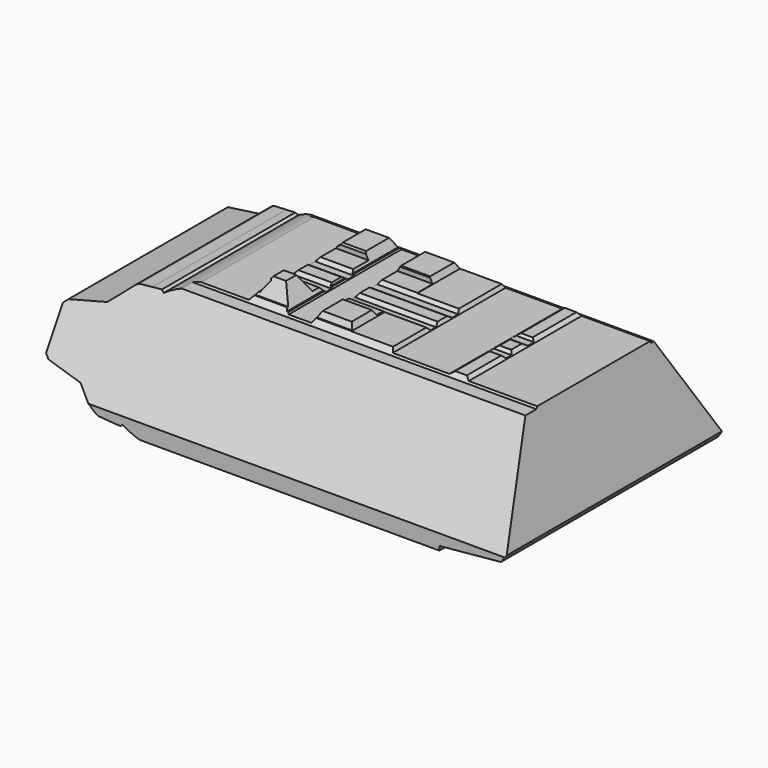
from build123d import *

# Parameters (mm, degrees)
F0_W     = 64.5160431693
F0_H     = 21.2102837178
F1_DEPTH = 25.4
F3_DEPTH = 51.816
F5_DEPTH = 78.486
F6_DEPTH = 43.18


with BuildPart() as f1:
    # F0 (on Top) → F1 (new body)
    with BuildSketch(Plane.XY):
        with Locations((-13.5457146427, -10.1202105203)):
            Rectangle(F0_W, F0_H)
        with Locations((-13.5457146427, -31.3304942381)):
            Rectangle(F0_W, F0_H)
        Polygon((-56.0653362274, -41.935636097), (-45.8037362274, -41.935636097), (-45.8037362274, -20.7253523792), (-45.8037362274, 0.4849313386), (-56.0653362274, 0.4849313386), (-56.0653362274, -20.7253523792), align=None)
    extrude(amount=F1_DEPTH)

    # F2 (on face) → F3 (cut)
    with BuildSketch(Plane.XZ.offset(41.935636097)):
        with BuildLine():
            ThreePointArc((-44.145979319, 1.0321285638), (-44.1486688564, 1.034928695), (-44.1513573992, 1.0377297813))
            Line((-44.1513573992, 1.0377297813), (-45.9468774498, 1.1715529611))
            Line((-45.9468774498, 1.1715529611), (-44.145979319, 1.0321285638))
        make_face()
        with BuildLine():
            Line((-44.021862033, 16.3071069646), (-42.5827212101, 16.4143685911))
            ThreePointArc((-42.5827212101, 16.4143685911), (-42.5963025327, 16.4205333574), (-42.6111564435, 16.4218816897))
            Line((-42.6111564435, 16.4218816897), (-44.0158800553, 16.3131288738))
            ThreePointArc((-44.0158800553, 16.3131288738), (-44.0188716286, 16.3101184998), (-44.021862033, 16.3071069646))
        make_face()
        with BuildLine():
            Line((-45.9468774498, 16.1636322737), (-44.021862033, 16.3071069646))
            ThreePointArc((-44.021862033, 16.3071069646), (-44.0188716286, 16.3101184998), (-44.0158800553, 16.3131288738))
            Line((-44.0158800553, 16.3131288738), (-45.9468774498, 16.1636322737))
        make_face()
        with BuildLine():
            Line((7.372798217, 0), (-39.4825406605, 0))
            ThreePointArc((-39.4825406605, 0), (-38.9420590995, -0.1240575085), (-38.3949389733, -0.2144463942))
            Line((-38.3949389733, -0.2144463942), (7.372798217, -0.2144463942))
            Line((7.372798217, -0.2144463942), (7.372798217, 0))
        make_face()
        with BuildLine():
            ThreePointArc((-42.1654908366, 16.1326498601), (-40.5135421796, 16.9967749546), (-38.7185404025, 17.5003771437))
            Line((-38.7185404025, 17.5003771437), (-31.250141561, 17.5003771437))
            Line((-31.250141561, 17.5003771437), (-30.4561574012, 18.5174327344))
            Line((-30.4561574012, 18.5174327344), (-30.2798189223, 18.5174327344))
            Line((-30.2798189223, 18.5174327344), (-29.2510185391, 20.0290549546))
            Line((-29.2510185391, 20.0290549546), (-29.3390378356, 20.2990490943))
            Line((-29.3390378356, 20.2990490943), (-29.12097238, 20.5859038979))
            Line((-29.12097238, 20.5859038979), (-27.1381475031, 20.5859038979))
            Line((-27.1381475031, 20.5859038979), (-25.4679527134, 17.7082661539))
            Line((-25.4679527134, 17.7082661539), (-25.2317674458, 17.7082661539))
            Line((-25.2317674458, 17.7082661539), (-25.0472072512, 17.5003771437))
            Line((-25.0472072512, 17.5003771437), (-21.5065404773, 17.5003771437))
            Line((-21.5065404773, 17.5003771437), (-20.6615831703, 18.9307779074))
            Line((-20.6615831703, 18.9307779074), (-16.1240063608, 18.9307779074))
            Line((-16.1240063608, 18.9307779074), (-15.6271327287, 18.0392824113))
            Line((-15.6271327287, 18.0392824113), (-9.1119576246, 18.0392824113))
            Line((-9.1119576246, 18.0392824113), (-8.7532978505, 17.5003771437))
            Line((-8.7532978505, 17.5003771437), (0.1143061163, 17.5003771437))
            Line((0.1143061163, 17.5003771437), (0.7239317638, 17.9214961827))
            Line((0.7239317638, 17.9214961827), (2.5316779502, 17.9214961827))
            Line((2.5316779502, 17.9214961827), (3.1462397892, 17.5003771437))
            Line((3.1462397892, 17.5003771437), (13.8490989856, 17.5003771437))
            Line((13.8490989856, 17.5003771437), (17.7825259097, 2.6434083702))
            Line((17.7825259097, 2.6434083702), (17.0111356355, 1.5585501678))
            Line((17.0111356355, 1.5585501678), (7.372798217, 0.6550194812))
            Line((7.372798217, 0.6550194812), (7.372798217, 0))
            Line((7.372798217, 0), (18.7123069419, 0))
            Line((18.7123069419, 0), (18.7123069419, 25.4))
            Line((18.7123069419, 25.4), (-56.0653362274, 25.4))
            Line((-56.0653362274, 25.4), (-56.0653362274, 0))
            Line((-56.0653362274, 0), (-39.4825406605, 0))
            ThreePointArc((-39.4825406605, 0), (-40.8736718435, 0.4904810681), (-42.1654908366, 1.2025353747))
            Line((-42.1654908366, 1.2025353747), (-42.5827212101, 0.9208166436))
            Line((-42.5827212101, 0.9208166436), (-44.1513573992, 1.0377297813))
            ThreePointArc((-44.1513573992, 1.0377297813), (-44.1486688564, 1.034928695), (-44.145979319, 1.0321285638))
            Line((-44.145979319, 1.0321285638), (-45.9468774498, 1.1715529611))
            Line((-45.9468774498, 1.1715529611), (-46.4343652129, 1.4113573482))
            Line((-46.4343652129, 1.4113573482), (-49.6125221252, 4.1695129251))
            Line((-49.6125221252, 4.1695129251), (-55.1616996527, 5.3079299753))
            Line((-55.1616996527, 5.3079299753), (-55.7882027962, 5.8516391712))
            Line((-55.7882027962, 5.8516391712), (-55.7882027962, 8.6675926174))
            Line((-55.7882027962, 8.6675926174), (-55.7882027962, 11.4835460635))
            Line((-55.7882027962, 11.4835460635), (-55.1616996527, 12.0272552595))
            Line((-55.1616996527, 12.0272552595), (-49.6125221252, 13.1656723097))
            Line((-49.6125221252, 13.1656723097), (-46.4343652129, 15.9238278866))
            Line((-46.4343652129, 15.9238278866), (-45.9468774498, 16.1636322737))
            Line((-45.9468774498, 16.1636322737), (-44.0158800553, 16.3131288738))
            Line((-44.0158800553, 16.3131288738), (-42.6111564435, 16.4218816897))
            ThreePointArc((-42.6111564435, 16.4218816897), (-42.5963025327, 16.4205333574), (-42.5827212101, 16.4143685911))
            Line((-42.5827212101, 16.4143685911), (-42.1654908366, 16.1326498601))
        make_face()
    extrude(amount=-F3_DEPTH, mode=Mode.SUBTRACT)

    # F4 (on Right) → F5 (cut)
    with BuildSketch(Plane.YZ):
        Polygon((-9.7505459562, 19.0722569823), (-8.6611686274, 17.2283314168), (-8.1623115887, 17.2283314168), (0.8263854931, 1.7911824398), (1.259337645, 21.2465394288), (-42.2770902514, 21.2465394288), (-42.2770902514, 1.7911824398), (-33.2883931696, 17.2283314168), (-31.1412010342, 17.2283314168), (-30.3681883961, 18.0637445301), (-30.1878191531, 18.0637445301), (-28.7448633462, 20.6411108375), (-26.786563918, 20.6411108375), (-25.3436081111, 18.2183869183), (-24.0552537143, 18.2183869183), (-23.4626121819, 17.5740458071), (-22.3917532712, 17.5740458071), (-21.7214301229, 17.9864261299), (-19.8657140136, 17.9864261299), (-19.1957950592, 17.5740458071), (-18.0102344602, 17.5740458071), (-17.4616630302, 18.078601868), (-14.4639806944, 18.078601868), (-14.4639806944, 18.8015084714), (-14.2472516745, 19.0722569823), align=None)
    extrude(amount=-F5_DEPTH, mode=Mode.SUBTRACT)

    # F4 (on Right) → F6 (cut)
    with BuildSketch(Plane.YZ):
        Polygon((-9.7505459562, 19.0722569823), (-8.6611686274, 17.2283314168), (-8.1623115887, 17.2283314168), (0.8263854931, 1.7911824398), (1.259337645, 21.2465394288), (-42.2770902514, 21.2465394288), (-42.2770902514, 1.7911824398), (-33.2883931696, 17.2283314168), (-31.1412010342, 17.2283314168), (-30.3681883961, 18.0637445301), (-30.1878191531, 18.0637445301), (-28.7448633462, 20.6411108375), (-26.786563918, 20.6411108375), (-25.3436081111, 18.2183869183), (-24.0552537143, 18.2183869183), (-23.4626121819, 17.5740458071), (-22.3917532712, 17.5740458071), (-21.7214301229, 17.9864261299), (-19.8657140136, 17.9864261299), (-19.1957950592, 17.5740458071), (-18.0102344602, 17.5740458071), (-17.4616630302, 18.078601868), (-14.4639806944, 18.078601868), (-14.4639806944, 18.8015084714), (-14.2472516745, 19.0722569823), align=None)
    extrude(amount=F6_DEPTH, mode=Mode.SUBTRACT)


solid = f1.part
